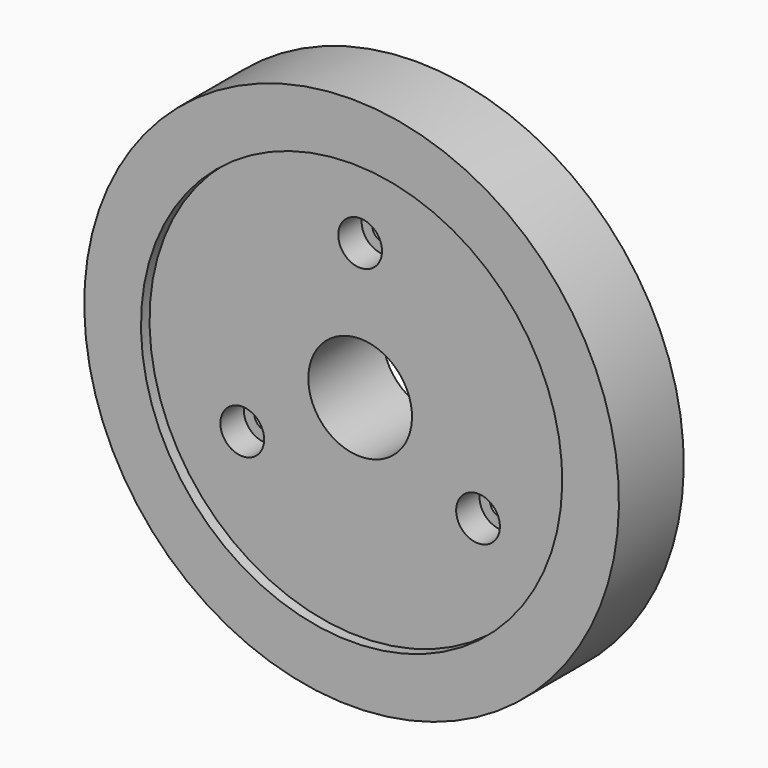
from build123d import *

# Parameters (mm, degrees)
F2_R     = 6.75
F3_DEPTH = 9
F4_R     = 3.5
F5_DEPTH = 25.001


with BuildPart() as f1:
    # F0 (on Right) → F1 (revolve)
    with BuildSketch(Plane.YZ):
        Polygon((3.3, 16), (32, 16), (32, 36), (25, 36), (25, 82.5), (0, 82.5), (0, 65), (3.3, 65), align=None)
    revolve(axis=Axis((0, 21.725982, 0), (0, 1, 0)))

    # F2 (on face) → F3 (cut)
    with BuildSketch(Plane.XZ.offset(-3.3)):
        with Locations((0, 42)):
            Circle(F2_R)
        with Locations((36.373067, -21)):
            Circle(F2_R)
        with Locations((-36.373067, -21)):
            Circle(F2_R)
    extrude(amount=-F3_DEPTH, mode=Mode.SUBTRACT)

    # F4 (on face) → F5 (cut, through all)
    with BuildSketch(Plane(origin=(0, 25, 0), x_dir=(-1, 0, 0), z_dir=(0, 1, 0))):
        with Locations((0, 42)):
            Circle(F4_R)
        with Locations((-36.373067, -21)):
            Circle(F4_R)
        with Locations((36.373067, -21)):
            Circle(F4_R)
    extrude(amount=-F5_DEPTH, mode=Mode.SUBTRACT)


solid = f1.part
